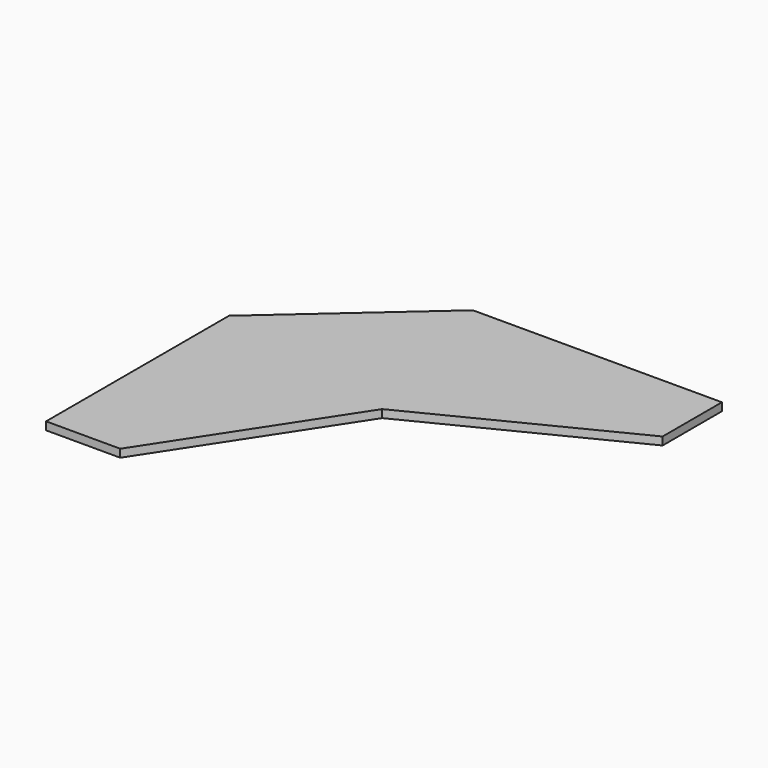
from build123d import *

# Parameters (mm, degrees)
F1_DEPTH = 19.05


with BuildPart() as f1:
    # F0 (on Top) → F1 (new body)
    with BuildSketch(Plane.XY):
        Polygon((-962.025, 325.967749), (-962.025, -222.25), (-784.225, -222.25), (-501.65, 209.55), (-22.225, 450.85), (-22.225, 628.65), (-619.365848, 628.65), align=None)
    extrude(amount=-F1_DEPTH)


solid = f1.part
